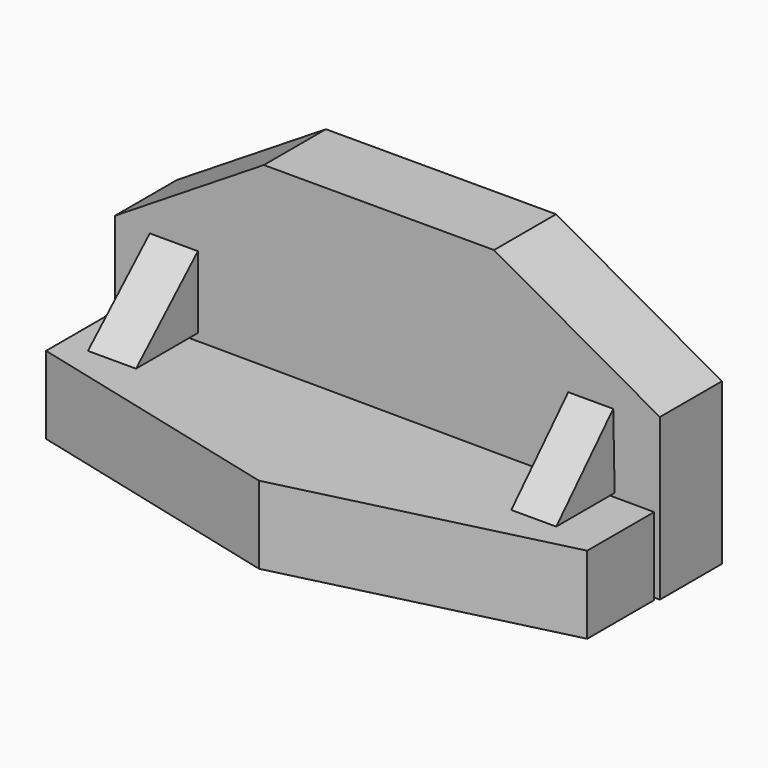
from build123d import *

# Parameters (mm, degrees)
F1_DEPTH = 12.7
F3_DEPTH = 12.7
F5_DEPTH = 32.766
F6_DEPTH = 25.4
F8_DEPTH = 43.688
F9_DEPTH = 35.814


with BuildPart() as f1:
    # F0 (on Front) → F1 (new body)
    with BuildSketch(Plane.XZ):
        Polygon((12.681666, 41.572303), (-25.005262, 41.572303), (-49.39092, 26.331266), (-49.39092, 0), (39.838422, 0), (39.838422, 26.331266), align=None)
    extrude(amount=F1_DEPTH)

    # F2 (on Top) → F3 (join)
    with BuildSketch(Plane.XY):
        Polygon((39.349183, -13.26213), (-49.259346, -12.67918), (-49.259346, -26.961476), (-5.538032, -38.037542), (39.349183, -26.961476), align=None)
    extrude(amount=F3_DEPTH)

    # F7 (on Right) → F8 (join)
    with BuildSketch(Plane.YZ):
        Polygon((-12.533442, 25.795575), (-25.35836, 13.845082), (-12.533442, 13.845082), align=None)
    extrude(amount=-F8_DEPTH)

    # F8_face (on face) → F9 (cut)
    with BuildSketch(Plane(origin=(0, -16.919453, 17.776846), x_dir=(0, 1, 0), z_dir=(1, 0, 0))):
        Polygon((4.219453, -3.931764), (4.219453, 7.863527), (-8.438907, -3.931764), align=None)
    extrude(amount=-F9_DEPTH, mode=Mode.SUBTRACT)


with BuildPart() as f5:
    # F4 (on Right) → F5 (new body)
    with BuildSketch(Plane.YZ):
        Polygon((-25.066884, 13.26213), (-13.116392, 13.26213), (-13.407867, 25.504097), align=None)
    extrude(amount=F5_DEPTH)

    # F5_face (on face) → F6 (cut)
    with BuildSketch(Plane(origin=(0, -17.197048, 17.342786), x_dir=(0, 1, 0), z_dir=(-1, 0, 0))):
        Polygon((4.080656, 4.080656), (-7.869836, 4.080656), (3.789181, -8.161311), align=None)
    extrude(amount=-F6_DEPTH, mode=Mode.SUBTRACT)


solid = Compound([f1.part, f5.part])
